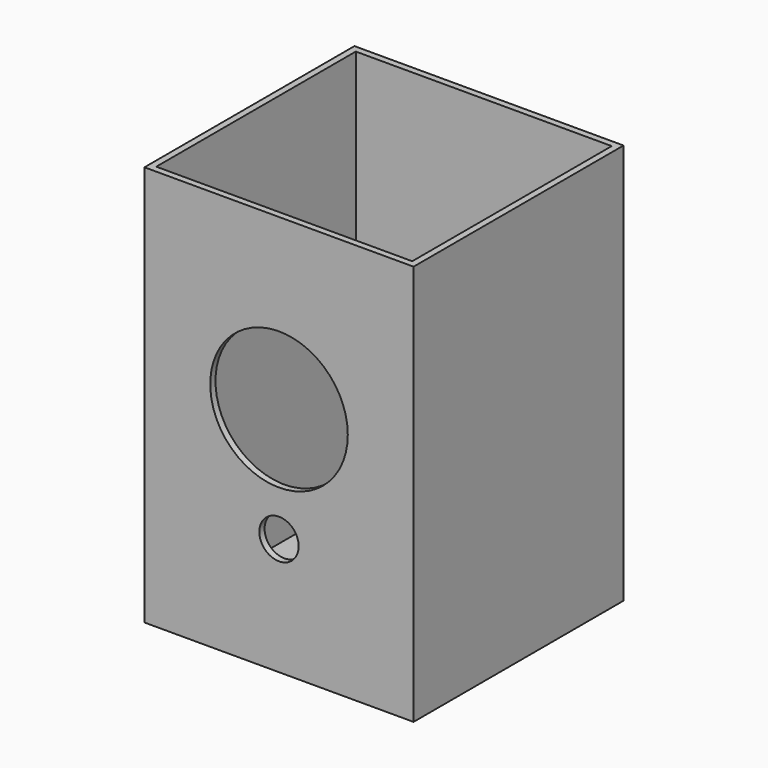
from build123d import *

# Parameters (mm, degrees)
F0_W     = 102.519328
F0_H     = 152.68781
F1_DEPTH = 100
F2_T     = -2.5
F3_R     = 26.204543
F4_DEPTH = 25
F5_R     = 7.497615
F6_DEPTH = 25


with BuildPart() as f1:
    # F0 (on Front) → F1 (new body)
    with BuildSketch(Plane.XZ):
        Rectangle(F0_W, F0_H)
    extrude(amount=F1_DEPTH)

    # F2
    f2_openings = [f1.faces().sort_by_distance(p)[0] for p in [
        (0, -50, 76.343905),
    ]]
    offset(amount=F2_T, openings=f2_openings)

    # F3 (on face) → F4 (cut)
    with BuildSketch(Plane.XZ.offset(100)):
        with Locations((0, 11.788906)):
            Circle(F3_R)
    extrude(amount=-F4_DEPTH, mode=Mode.SUBTRACT)

    # F5 (on face) → F6 (cut)
    with BuildSketch(Plane.XZ.offset(100)):
        with Locations((0, -31.666696)):
            Circle(F5_R)
    extrude(amount=-F6_DEPTH, mode=Mode.SUBTRACT)


solid = f1.part
